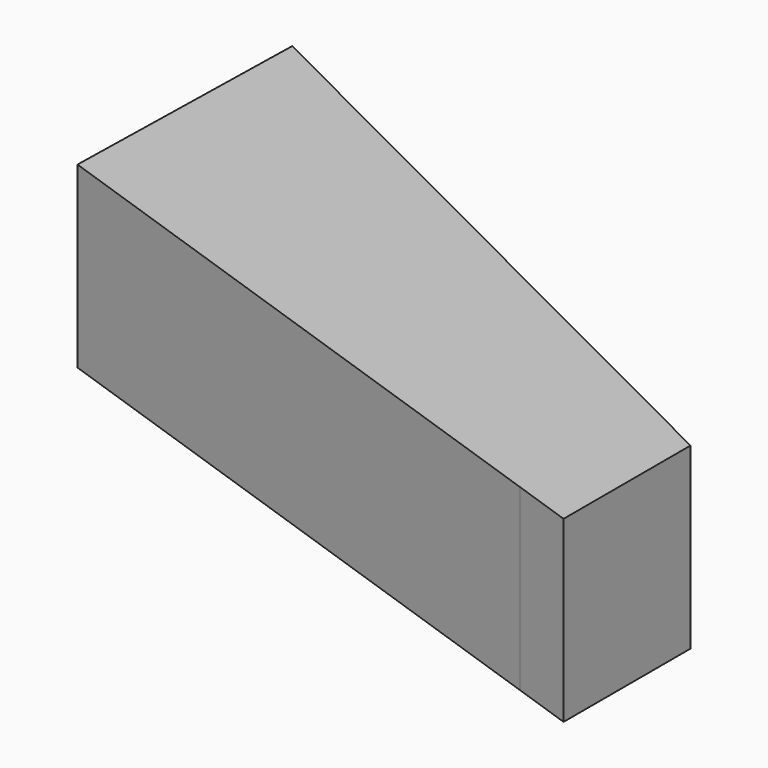
from build123d import *

# Parameters (mm, degrees)
F1_DEPTH = 25.4


with BuildPart() as f1:
    # F0 (on Top) → F1 (new body)
    with BuildSketch(Plane.XY):
        Polygon((74.905023, -63.231923), (-19.537218, -15.898079), (-20.362001, -52.992254), (66.369687, -82.83311), (66.369687, -76.226563), (74.905023, -76.226563), align=None)
        Polygon((74.905023, -85.769773), (74.905023, -76.226563), (66.369687, -76.226563), (66.369687, -82.83311), align=None)
    extrude(amount=F1_DEPTH)


solid = f1.part
